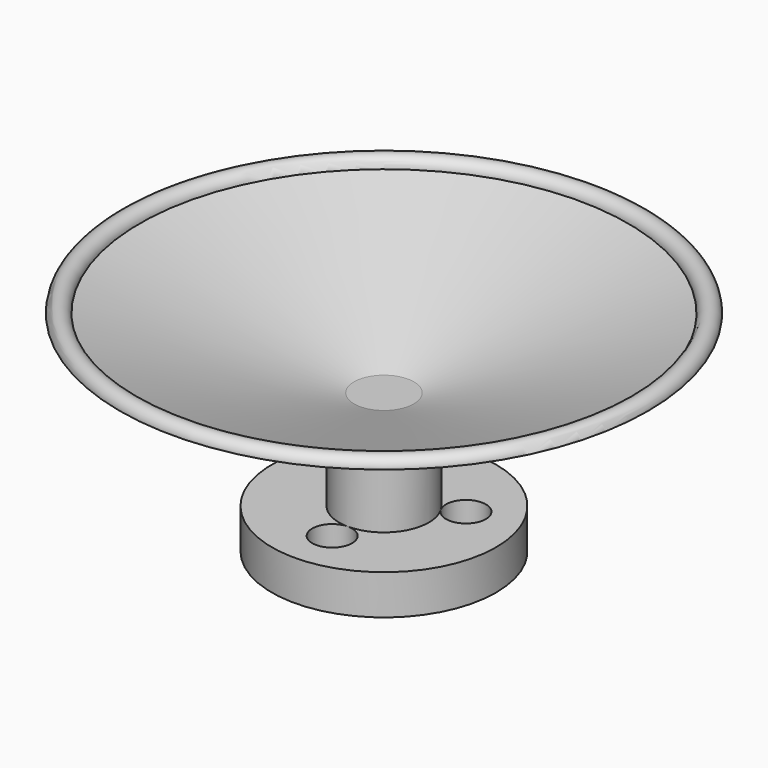
from build123d import *

# Parameters (mm, degrees)
F0_R     = 11.25
F1_DEPTH = 4
F2_R     = 4.5
F3_DEPTH = 6
F6_R     = 2
F7_DEPTH = 4


with BuildPart() as f1:
    # F0 (on Top) → F1 (new body)
    with BuildSketch(Plane.XY):
        Circle(F0_R)
    extrude(amount=F1_DEPTH)

    # F2 (on face) → F3 (join)
    with BuildSketch(Plane.XY.offset(4)):
        Circle(F2_R)
    extrude(amount=F3_DEPTH)

    # F4 (on Front) → F5 (revolve)
    with BuildSketch(Plane.XZ):
        with BuildLine():
            Line((3, 14), (0, 14))
            Line((0, 14), (0, 10))
            Line((0, 10), (4.5, 10))
            Line((4.5, 10), (26.5, 21))
            ThreePointArc((26.5, 21), (25.5, 22), (24.5, 21))
            Line((24.5, 21), (3, 14))
        make_face()
    revolve(axis=Axis((0, 0, 19.201497), (0, 0, 1)))

    # F6 (on face) → F7 (cut, through all)
    with BuildSketch(Plane(origin=(0, 0, 0), x_dir=(1, 0, 0), z_dir=(0, 0, -1))):
        with Locations((-5.629165, -3.25)):
            Circle(F6_R)
        with Locations((5.629165, -3.25)):
            Circle(F6_R)
        with Locations((0, 6.5)):
            Circle(F6_R)
    extrude(amount=-F7_DEPTH, mode=Mode.SUBTRACT)


solid = f1.part
